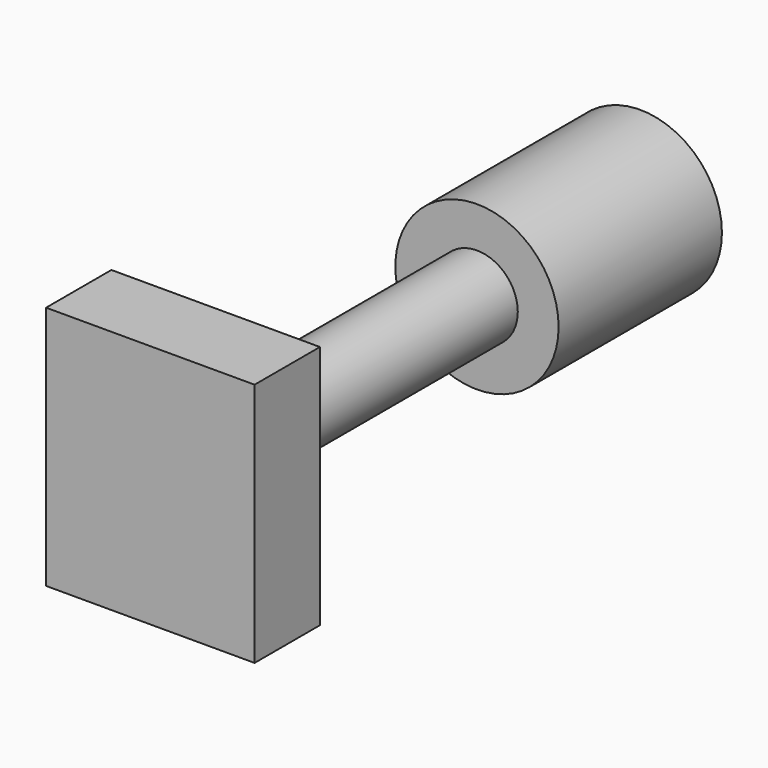
from build123d import *

# Parameters (mm, degrees)
F0_R     = 10
F1_DEPTH = 25
F2_R     = 5
F3_DEPTH = 40
F4_W     = 25.535787
F4_H     = 30
F5_DEPTH = 10


with BuildPart() as f1:
    # F0 (on Front) → F1 (new body)
    with BuildSketch(Plane.XZ):
        with Locations((-28.650001, 26.700001)):
            Circle(F0_R)
    extrude(amount=F1_DEPTH)

    # F2 (on face) → F3 (join)
    with BuildSketch(Plane.XZ.offset(25)):
        with Locations((-28.650001, 26.700001)):
            Circle(F2_R)
    extrude(amount=F3_DEPTH)

    # F4 (on face) → F5 (join)
    with BuildSketch(Plane.XZ.offset(65)):
        with Locations((-28.65, 26.700001)):
            Rectangle(F4_W, F4_H)
    extrude(amount=F5_DEPTH)


solid = f1.part
